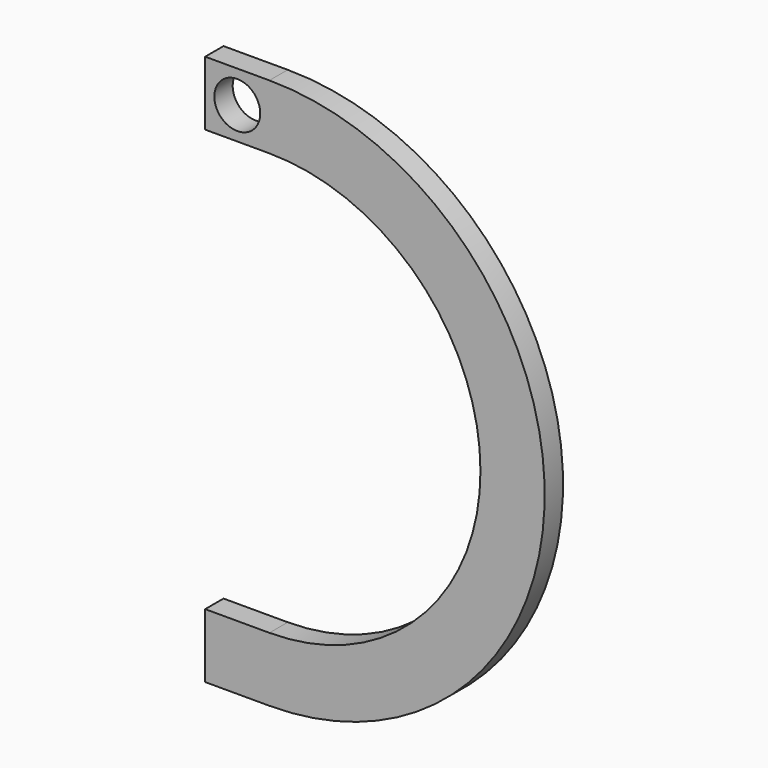
from build123d import *

# Parameters (mm, degrees)
F0_W     = 8.89
F0_H     = 8.89
F0_R     = 3.175
F1_DEPTH = 3.175


with BuildPart() as f1:
    # F0 (on Front) → F1 (new body)
    with BuildSketch(Plane.XZ):
        with Locations((0, 33.655)):
            Rectangle(F0_W, F0_H)
        with Locations((0, 33.655)):
            Circle(F0_R, mode=Mode.SUBTRACT)
        with Locations((0, -33.655)):
            Rectangle(F0_W, F0_H)
        with BuildLine():
            ThreePointArc((4.445, -38.1), (42.545, 0), (4.445, 38.1))
            Line((4.445, 38.1), (4.445, 29.21))
            ThreePointArc((4.445, 29.21), (33.655, 0), (4.445, -29.21))
            Line((4.445, -29.21), (4.445, -38.1))
        make_face()
    extrude(amount=F1_DEPTH)


solid = f1.part
